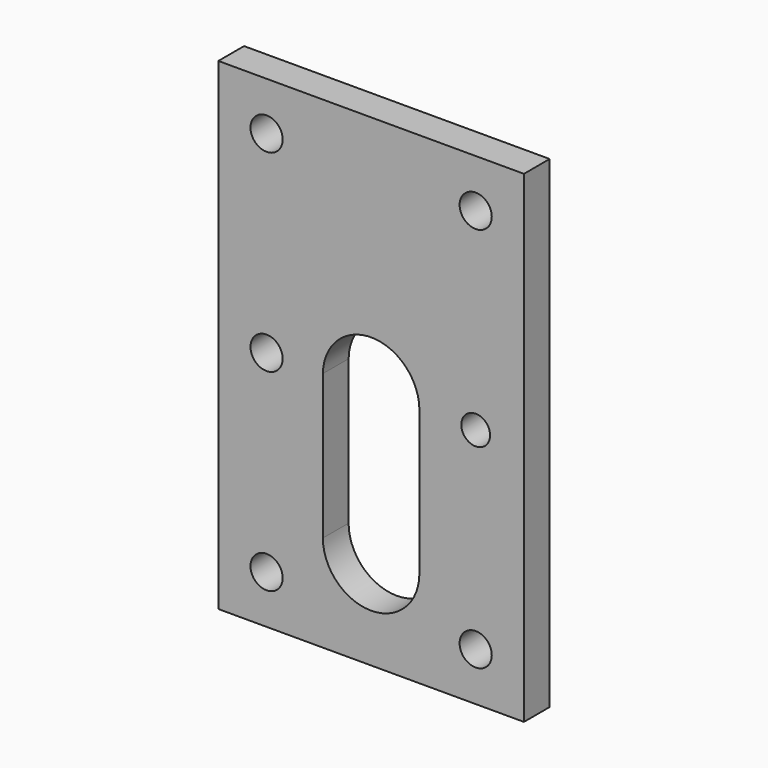
from build123d import *

# Parameters (mm, degrees)
F0_W      = 19
F0_H      = 30
F1_DEPTH  = 5
F3_DEPTH  = 3
F4_R      = 1
F4_R_2    = 0.895507
F5_DEPTH  = 25
F6_DEPTH  = 25
F7_W      = 43.592543
F7_H      = 48.578868
F8_DEPTH  = 2
F9_W      = 52.903849
F9_H      = 60.980772
F10_DEPTH = 1
F11_DEPTH = 25


with BuildPart() as f1:
    # F0 (on Front) → F1 (new body)
    with BuildSketch(Plane.XZ):
        Rectangle(F0_W, F0_H)
    extrude(amount=F1_DEPTH)

    # F2 (on face) → F3 (cut)
    with BuildSketch(Plane.XZ.offset(5)):
        with BuildLine():
            Line((-3, 0), (-3, -9))
            ThreePointArc((-3, -9), (0, -12), (3, -9))
            Line((3, -9), (3, 0))
            ThreePointArc((3, 0), (0, 2.961188), (-3, 0))
        make_face()
    extrude(amount=-F3_DEPTH, mode=Mode.SUBTRACT)

    # F4 (on face) → F5 (cut)
    with BuildSketch(Plane.XZ.offset(2)):
        with Locations((-6.5, 12)):
            Circle(F4_R)
        with Locations((6.5, 12)):
            Circle(F4_R)
        with Locations((6.5, -12)):
            Circle(F4_R)
        with Locations((-6.5, -12)):
            Circle(F4_R)
        with Locations((-6.5, 0)):
            Circle(F4_R)
        with Locations((6.5, 0)):
            Circle(F4_R_2)
    extrude(amount=-F5_DEPTH, mode=Mode.SUBTRACT)

    # F4 (on face) → F6 (cut)
    with BuildSketch(Plane.XZ.offset(2)):
        with Locations((-6.5, 12)):
            Circle(F4_R)
        with Locations((6.5, 12)):
            Circle(F4_R)
        with Locations((6.5, -12)):
            Circle(F4_R)
        with Locations((-6.5, -12)):
            Circle(F4_R)
        with Locations((-6.5, 0)):
            Circle(F4_R)
        with Locations((6.5, 0)):
            Circle(F4_R_2)
    extrude(amount=F6_DEPTH, mode=Mode.SUBTRACT)

    # F7 (on face) → F8 (cut)
    with BuildSketch(Plane.XZ.offset(5)):
        with Locations((0.917289, -2.192111)):
            Rectangle(F7_W, F7_H)
    extrude(amount=-F8_DEPTH, mode=Mode.SUBTRACT)

    # F9 (on face) → F10 (cut)
    with BuildSketch(Plane(origin=(0, 0, 0), x_dir=(-1, 0, 0), z_dir=(0, 1, 0))):
        with Locations((0.067309, -0.875001)):
            Rectangle(F9_W, F9_H)
    extrude(amount=-F10_DEPTH, mode=Mode.SUBTRACT)

    # F2 (on face) → F11 (cut)
    with BuildSketch(Plane.XZ.offset(5)):
        with BuildLine():
            Line((-3, 0), (-3, -9))
            ThreePointArc((-3, -9), (0, -12), (3, -9))
            Line((3, -9), (3, 0))
            ThreePointArc((3, 0), (0, 2.961188), (-3, 0))
        make_face()
    extrude(amount=-F11_DEPTH, mode=Mode.SUBTRACT)


solid = f1.part
